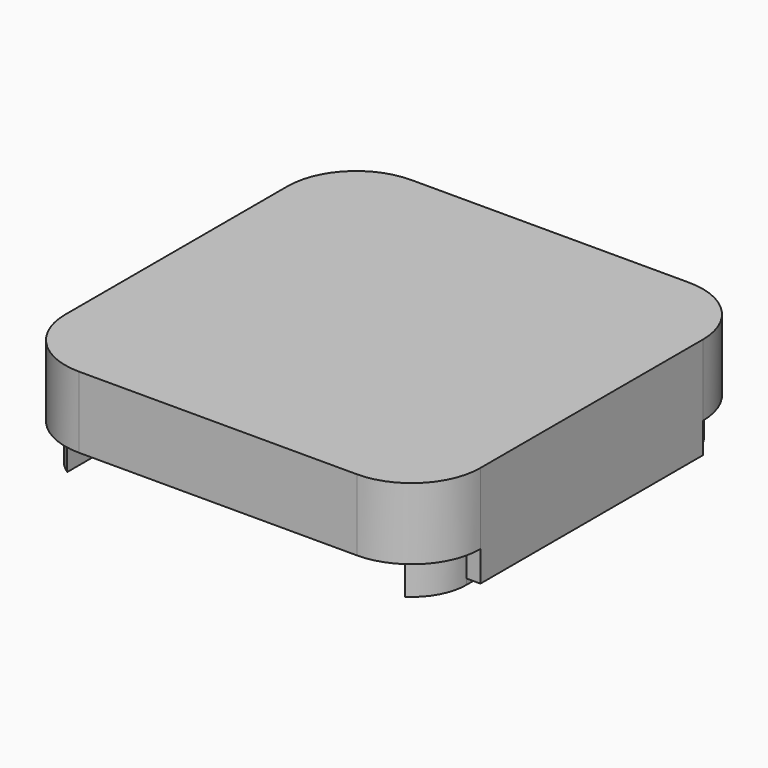
from build123d import *

# Parameters (mm, degrees)
PAD006_DEPTH    = 12.9
THICKNESS_T     = -2.4
PAD007_DEPTH    = 17
FILLET004_R     = 2
POCKET007_DEPTH = 6.5
POCKET008_DEPTH = 6.5
POCKET009_DEPTH = 6.5
POCKET010_DEPTH = 2.5
SKETCH020_W     = 24
SKETCH020_H     = 50.2
PAD008_DEPTH    = 16


with BuildPart() as part:
    # Sketch013 → Pad006 (new body)
    with BuildSketch(Plane.XY):
        with BuildLine():
            Line((12.4, 0), (62.6, 0))
            ThreePointArc((62.6, 0), (71.368124, 3.631876), (75, 12.4))
            Line((75, 12.4), (75, 62.6))
            ThreePointArc((75, 62.6), (71.368124, 71.368124), (62.6, 75))
            Line((62.6, 75), (12.4, 75))
            ThreePointArc((12.4, 75), (3.631876, 71.368124), (0, 62.6))
            Line((0, 62.6), (0, 12.4))
            ThreePointArc((0, 12.4), (3.631876, 3.631876), (12.4, 0))
        make_face()
    extrude(amount=-PAD006_DEPTH)

    # Thickness
    thickness_openings = [part.faces().sort_by_distance(p)[0] for p in [
        (37.5, 37.5, -12.9),
    ]]
    offset(amount=THICKNESS_T, openings=thickness_openings)

    # Sketch014 (on Face19 of Thickness) → Pad007 (join)
    with BuildSketch(Plane(origin=(0, 0, -2.4), x_dir=(1, 0, 0), z_dir=(0, 0, -1))):
        with BuildLine():
            Line((7, -12.4), (7, -3.98335))
            ThreePointArc((7, -3.98335), (3.625036, -7.604168), (2.4, -12.4))
            Line((2.4, -12.4), (2.4, -17))
            Line((2.4, -17), (7, -17))
            Line((7, -17), (7, -12.4))
        make_face()
        with BuildLine():
            Line((68, -12.4), (68, -3.98335))
            ThreePointArc((72.6, -12.4), (71.374964, -7.604168), (68, -3.98335))
            Line((72.6, -17), (72.6, -12.4))
            Line((68, -17), (72.6, -17))
            Line((68, -12.4), (68, -17))
        make_face()
        with BuildLine():
            Line((68, -62.6), (68, -71.01665))
            ThreePointArc((68, -71.01665), (71.374964, -67.395832), (72.6, -62.6))
            Line((72.6, -58), (72.6, -62.6))
            Line((72.6, -58), (68, -58))
            Line((68, -58), (68, -62.6))
        make_face()
        with BuildLine():
            Line((7, -62.6), (7, -71.01665))
            ThreePointArc((2.4, -62.6), (3.625036, -67.395832), (7, -71.01665))
            Line((2.4, -62.6), (2.4, -58))
            Line((2.4, -58), (7, -58))
            Line((7, -58), (7, -62.6))
        make_face()
    extrude(amount=PAD007_DEPTH)

    # Fillet004
    fillet004_edges = [part.edges().sort_by_distance(p)[0] for p in [
        (68, 58, -10.9),
        (68, 17, -10.9),
        (7, 58, -10.9),
        (7, 17, -10.9),
    ]]
    fillet(fillet004_edges, radius=FILLET004_R)

    # Sketch015 (on Face22 of Fillet004) → Pocket007 (cut)
    with BuildSketch(Plane(origin=(0, 0, -19.4), x_dir=(1, 0, 0), z_dir=(0, 0, -1))):
        with BuildLine():
            Line((2.4, -17), (2.5, -17))
            Line((2.5, -17), (2.5, -12.4))
            ThreePointArc((7, -4.10241), (3.697414, -7.68036), (2.5, -12.4))
            Line((7, -3.98335), (7, -4.10241))
            ThreePointArc((7, -3.98335), (3.625036, -7.604168), (2.4, -12.4))
            Line((2.4, -17), (2.4, -12.4))
        make_face()
        with BuildLine():
            Line((72.6, -17), (72.6, -12.4))
            ThreePointArc((72.6, -12.4), (71.374964, -7.604168), (68, -3.98335))
            Line((68, -3.98335), (68, -4.10241))
            ThreePointArc((72.5, -12.4), (71.302586, -7.68036), (68, -4.10241))
            Line((72.5, -17), (72.5, -12.4))
            Line((72.6, -17), (72.5, -17))
        make_face()
    extrude(amount=-POCKET007_DEPTH, mode=Mode.SUBTRACT)

    # Sketch016 (on Face41 of Pocket007) → Pocket008 (cut)
    with BuildSketch(Plane(origin=(0, 0, -19.4), x_dir=(1, 0, 0), z_dir=(0, 0, -1))):
        with BuildLine():
            Line((72.6, -58), (72.6, -62.6))
            ThreePointArc((68, -71.01665), (71.374964, -67.395832), (72.6, -62.6))
            Line((68, -71.01665), (68, -70.89759))
            ThreePointArc((68, -70.89759), (71.302586, -67.31964), (72.5, -62.6))
            Line((72.5, -58), (72.5, -62.6))
            Line((72.6, -58), (72.5, -58))
        make_face()
    extrude(amount=-POCKET008_DEPTH, mode=Mode.SUBTRACT)

    # Sketch017 (on Face31 of Pocket008) → Pocket009 (cut)
    with BuildSketch(Plane(origin=(0, 0, -19.4), x_dir=(1, 0, 0), z_dir=(0, 0, -1))):
        with BuildLine():
            ThreePointArc((2.4, -62.6), (3.625036, -67.395832), (7, -71.01665))
            Line((7, -71.01665), (7, -70.89759))
            ThreePointArc((2.5, -62.6), (3.697414, -67.31964), (7, -70.89759))
            Line((2.5, -58), (2.5, -62.6))
            Line((2.4, -58), (2.5, -58))
            Line((2.4, -58), (2.4, -62.6))
        make_face()
    extrude(amount=-POCKET009_DEPTH, mode=Mode.SUBTRACT)

    # Sketch019 (on Face5 of Pocket009) → Pocket010 (cut)
    with BuildSketch(Plane(origin=(0, 0, 0), x_dir=(0, -1, 0), z_dir=(-1, 0, 0))):
        with BuildLine():
            Line((-12.4, -12.9), (-62.6, -12.9))
            add(Edge.make_bspline(
                [(-62.6, -12.9), (-59.6, -12.9), (-57.6, -9.4), (-55.6, -5.9), (-52.6, -5.9)],
                knots=[0, 0, 0, 0, 0.5, 1, 1, 1, 1], degree=3))
            Line((-52.6, -5.9), (-22.4, -5.9))
            add(Edge.make_bspline(
                [(-12.4, -12.9), (-15.4, -12.9), (-17.4, -9.4), (-19.4, -5.9), (-22.4, -5.9)],
                knots=[0, 0, 0, 0, 0.5, 1, 1, 1, 1], degree=3))
        make_face()
    extrude(amount=-POCKET010_DEPTH, mode=Mode.SUBTRACT)

    # Sketch020 (on Face36 of Pocket010) → Pad008 (join)
    with BuildSketch(Plane(origin=(0, 0, -2.4), x_dir=(1, 0, 0), z_dir=(0, 0, -1))):
        with Locations((63, -37.5)):
            Rectangle(SKETCH020_W, SKETCH020_H)
    extrude(amount=PAD008_DEPTH)


with BuildPart() as part_1:
    # Body001 placement: moved
    add(part.part.moved(Location((0, 0, 29))))


solid = part_1.part
